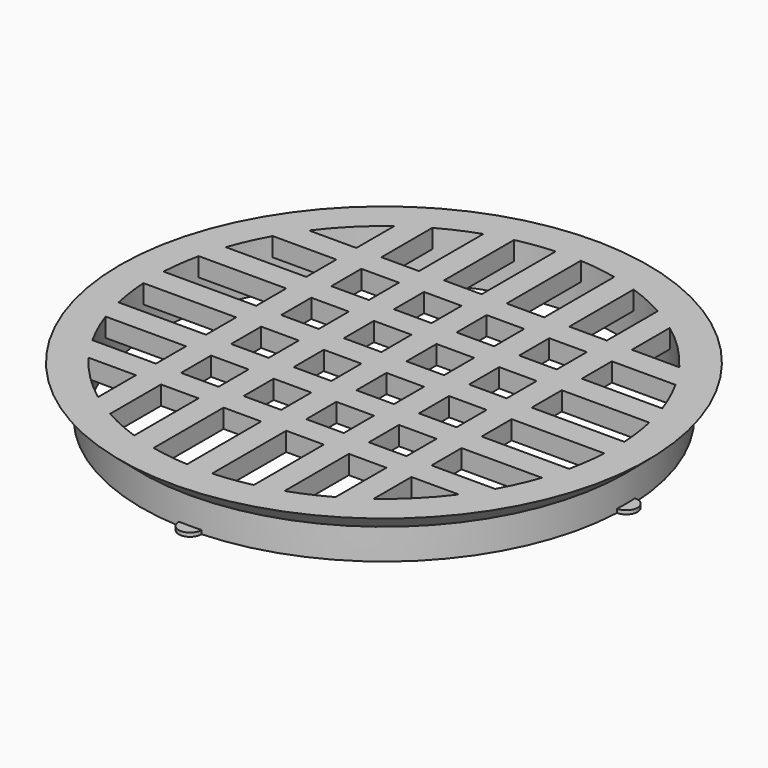
from build123d import *

# Parameters (mm, degrees)
CYLINDER063_R         = 50
CYLINDER063_DEPTH     = 10
CYLINDER067_R         = 37.5
CYLINDER067_DEPTH     = 5
CYLINDER059_R         = 45
CYLINDER059_DEPTH     = 5
BOX024_W              = 66
BOX024_H              = 4
BOX024_DEPTH          = 5
BOX028_W              = 66
BOX028_H              = 4
BOX028_DEPTH          = 5
BOX022_W              = 74
BOX022_H              = 4
BOX022_DEPTH          = 5
BOX020_W              = 74
BOX020_H              = 4
BOX020_DEPTH          = 5
BOX025_W              = 74
BOX025_H              = 4
BOX025_DEPTH          = 5
BOX027_W              = 66
BOX027_H              = 4
BOX027_DEPTH          = 5
BOX026_W              = 76
BOX026_H              = 4
BOX026_DEPTH          = 5
BOX021_W              = 66
BOX021_H              = 4
BOX021_DEPTH          = 5
BOX029_W              = 76
BOX029_H              = 4
BOX029_DEPTH          = 5
BOX023_W              = 74
BOX023_H              = 4
BOX023_DEPTH          = 5
CYLINDER065_R         = 37.3
CYLINDER065_DEPTH     = 5
CYLINDER060_R         = 37.5
CYLINDER060_DEPTH     = 5
SKETCH005_R           = 1.8
PAD001_DEPTH          = 0.6
POLARPATTERN003_COUNT = 4


with BuildPart() as cylinder063:
    # Cylinder063 → Cylinder063 (new body)
    with BuildSketch(Plane.XY.offset(-49)):
        Circle(CYLINDER063_R)
    extrude(amount=CYLINDER063_DEPTH)


with BuildPart() as cylinder067:
    # Cylinder067 → Cylinder067 (new body)
    with BuildSketch(Plane.XY.offset(-41)):
        Circle(CYLINDER067_R)
    extrude(amount=CYLINDER067_DEPTH)


with BuildPart() as cut032:
    # Cylinder059 → Cylinder059 (new body)
    with BuildSketch(Plane.XY.offset(-41)):
        Circle(CYLINDER059_R)
    extrude(amount=CYLINDER059_DEPTH)

    # Cut032: cut Cylinder067
    add(cylinder067.part, mode=Mode.SUBTRACT)


with BuildPart() as cube024:
    # Box024 → Box024 (new body)
    with BuildSketch(Plane(origin=(-18, -33, -41), x_dir=(0, 1, 0), z_dir=(0, 0, 1))):
        with Locations((33, 2)):
            Rectangle(BOX024_W, BOX024_H)
    extrude(amount=BOX024_DEPTH)


with BuildPart() as cube028:
    # Box028 → Box028 (new body)
    with BuildSketch(Plane(origin=(22, -33, -41), x_dir=(0, 1, 0), z_dir=(0, 0, 1))):
        with Locations((33, 2)):
            Rectangle(BOX028_W, BOX028_H)
    extrude(amount=BOX028_DEPTH)


with BuildPart() as cube022:
    # Box022 → Box022 (new body)
    with BuildSketch(Plane(origin=(-8, -37, -41), x_dir=(0, 1, 0), z_dir=(0, 0, 1))):
        with Locations((37, 2)):
            Rectangle(BOX022_W, BOX022_H)
    extrude(amount=BOX022_DEPTH)


with BuildPart() as cube020:
    # Box020 → Box020 (new body)
    with BuildSketch(Plane(origin=(-37, 8, -41), x_dir=(1, 0, 0), z_dir=(0, 0, 1))):
        with Locations((37, 2)):
            Rectangle(BOX020_W, BOX020_H)
    extrude(amount=BOX020_DEPTH)


with BuildPart() as cube025:
    # Box025 → Box025 (new body)
    with BuildSketch(Plane(origin=(-37, -12, -41), x_dir=(1, 0, 0), z_dir=(0, 0, 1))):
        with Locations((37, 2)):
            Rectangle(BOX025_W, BOX025_H)
    extrude(amount=BOX025_DEPTH)


with BuildPart() as cube027:
    # Box027 → Box027 (new body)
    with BuildSketch(Plane(origin=(-33, -22, -41), x_dir=(1, 0, 0), z_dir=(0, 0, 1))):
        with Locations((33, 2)):
            Rectangle(BOX027_W, BOX027_H)
    extrude(amount=BOX027_DEPTH)


with BuildPart() as cube026:
    # Box026 → Box026 (new body)
    with BuildSketch(Plane(origin=(-38, -2, -41), x_dir=(1, 0, 0), z_dir=(0, 0, 1))):
        with Locations((38, 2)):
            Rectangle(BOX026_W, BOX026_H)
    extrude(amount=BOX026_DEPTH)


with BuildPart() as cube021:
    # Box021 → Box021 (new body)
    with BuildSketch(Plane(origin=(-33, 18, -41), x_dir=(1, 0, 0), z_dir=(0, 0, 1))):
        with Locations((33, 2)):
            Rectangle(BOX021_W, BOX021_H)
    extrude(amount=BOX021_DEPTH)


with BuildPart() as cube029:
    # Box029 → Box029 (new body)
    with BuildSketch(Plane(origin=(2, -38, -41), x_dir=(0, 1, 0), z_dir=(0, 0, 1))):
        with Locations((38, 2)):
            Rectangle(BOX029_W, BOX029_H)
    extrude(amount=BOX029_DEPTH)


with BuildPart() as cube023:
    # Box023 → Box023 (new body)
    with BuildSketch(Plane(origin=(12, -37, -41), x_dir=(0, 1, 0), z_dir=(0, 0, 1))):
        with Locations((37, 2)):
            Rectangle(BOX023_W, BOX023_H)
    extrude(amount=BOX023_DEPTH)


with BuildPart() as cylinder065:
    # Cylinder065 → Cylinder065 (new body)
    with BuildSketch(Plane.XY.offset(-41)):
        Circle(CYLINDER065_R)
    extrude(amount=CYLINDER065_DEPTH)


with BuildPart() as obj1:
    # Cylinder060 → Cylinder060 (new body)
    with BuildSketch(Plane.XY.offset(-41)):
        Circle(CYLINDER060_R)
    extrude(amount=CYLINDER060_DEPTH)

    # Cut035: cut Cylinder065
    add(cylinder065.part, mode=Mode.SUBTRACT)

    # Fusion022: union Cube024, Cube028, Cube022, Cube020, Cube025, Cube027, Cube026, Cube021, Cube029, Cube023
    add(cube024.part)
    add(cube028.part)
    add(cube022.part)
    add(cube020.part)
    add(cube025.part)
    add(cube027.part)
    add(cube026.part)
    add(cube021.part)
    add(cube029.part)
    add(cube023.part)

    # Cut036: cut Cut032
    add(cut032.part, mode=Mode.SUBTRACT)

    # Cut034: cut Cylinder063
    add(cylinder063.part, mode=Mode.SUBTRACT)


with BuildPart() as obj1_1:
    # Cut034 placement: moved
    add(obj1.part.moved(Location((0, 0, 57.4))))


with BuildPart() as obj2:
    # Sketch006 → Revolution002 (revolve)
    with BuildSketch(Plane.XZ):
        Polygon((-36.85, 13.55), (-38.7, 13.55), (-38.7, 18.442992), (-42.15, 21.4), (-36.85, 21.4), align=None)
    revolve(axis=Axis((0, 0, 0), (0, 0, 1)))

    # Sketch005 (on Face1 of Revolution002) → Pad001 (new body)
    with BuildSketch(Plane(origin=(0, 0, 13.55), x_dir=(1, 0, 0), z_dir=(0, 0, -1))):
        with Locations((-38.7, 0)):
            Circle(SKETCH005_R)
    pad001 = extrude(amount=-PAD001_DEPTH)

    # PolarPattern003: Pad001 ×4 about axis
    polarpattern003_axis = Axis((0, 0, 13.55), (0, 0, -1))
    for i in range(1, POLARPATTERN003_COUNT):
        add(pad001.rotate(polarpattern003_axis, i * 360 / POLARPATTERN003_COUNT))

    # Fusion036: union obj1
    add(obj1_1.part)


solid = obj2.part
